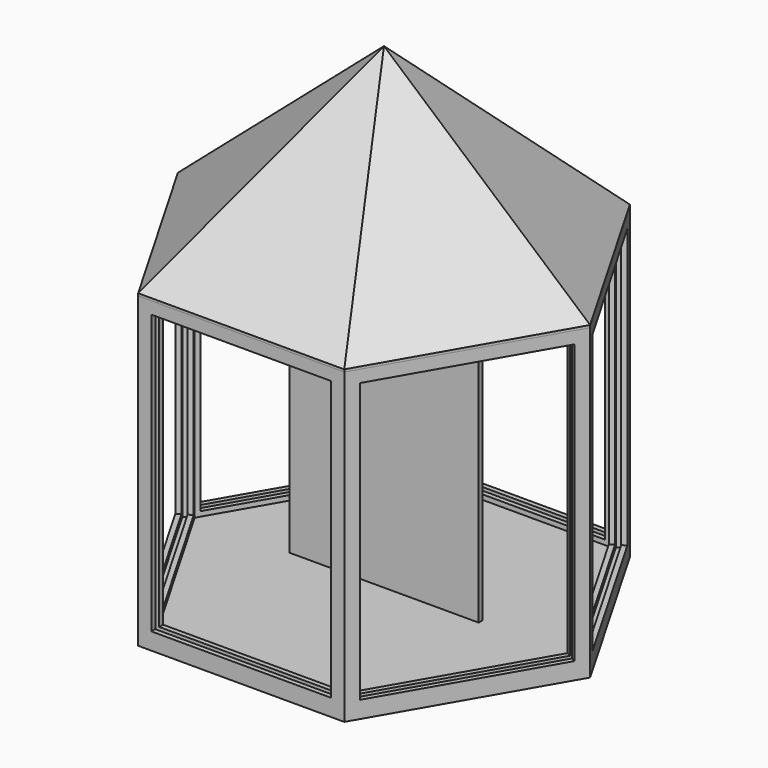
from build123d import *

# Parameters (mm, degrees)
BOX002_W               = 78.0717967697
BOX002_H               = 2
BOX002_DEPTH           = 122
PAD005_DEPTH           = 5
PAD004_DEPTH           = 5
BOX001_W               = 74.0717967697
BOX001_H               = 6
BOX001_DEPTH           = 120
BOX_W                  = 78.0717967697
BOX_H                  = 2
BOX_DEPTH              = 122
ARRAY_COUNT            = 6
PAD001_DEPTH           = 122
PAD_DEPTH              = 127
PAD003_DEPTH           = 5
PAD002_DEPTH           = 5
BOX003_W               = 170
BOX003_H               = 85
BOX003_DEPTH           = 120
BOX003_PLACEMENT_ANGLE = 45
ARRAY001_COUNT         = 6
PAD006_DEPTH           = 80.3811978465
PAD007_DEPTH           = 5
CYLINDER001_R          = 42.5
CYLINDER001_DEPTH      = 10
CYLINDER_R             = 85
CYLINDER_DEPTH         = 10
BOX004_W               = 170
BOX004_H               = 85
BOX004_DEPTH           = 120
BOX004_PLACEMENT_ANGLE = 45
ARRAY002_COUNT         = 6


with BuildPart() as obj1:
    # Box002 → Box002 (new body)
    with BuildSketch(Plane(origin=(-39.0358983849, 0, 0), x_dir=(1, 0, 0), z_dir=(0, 0, 1))):
        with Locations((39.0358983849, 1)):
            Rectangle(BOX002_W, BOX002_H)
    extrude(amount=BOX002_DEPTH)


with BuildPart() as body005:
    # Sketch005 → Pad005 (new body)
    with BuildSketch(Plane.XY):
        Polygon((78.0717967697, 0), (39.0358983849, 67.6121593217), (-39.0358983849, 67.6121593217), (-78.0717967697, 0), (-39.0358983849, -67.6121593217), (39.0358983849, -67.6121593217), align=None)
    extrude(amount=PAD005_DEPTH)


with BuildPart() as cut003:
    # Sketch004 → Pad004 (new body)
    with BuildSketch(Plane.XY):
        Polygon((80.3811978465, 0), (40.1905989232, 69.6121593217), (-40.1905989232, 69.6121593217), (-80.3811978465, 0), (-40.1905989232, -69.6121593217), (40.1905989232, -69.6121593217), align=None)
    extrude(amount=PAD004_DEPTH)

    # Cut003: cut Body005
    add(body005.part, mode=Mode.SUBTRACT)


with BuildPart() as cut003_1:
    # Cut003 placement: moved
    add(cut003.part.moved(Location((0, 0, 122))))


with BuildPart() as cube001:
    # Box001 → Box001 (new body)
    with BuildSketch(Plane(origin=(-37.0358983849, 67.6121593217, 7), x_dir=(1, 0, 0), z_dir=(0, 0, 1))):
        with Locations((37.0358983849, 3)):
            Rectangle(BOX001_W, BOX001_H)
    extrude(amount=BOX001_DEPTH)


with BuildPart() as array:
    # Box → Box (new body)
    with BuildSketch(Plane(origin=(-39.0358983849, 69.6121593217, 5), x_dir=(1, 0, 0), z_dir=(0, 0, 1))):
        with Locations((39.0358983849, 1)):
            Rectangle(BOX_W, BOX_H)
    extrude(amount=BOX_DEPTH)

    # Fusion: union Cube001
    add(cube001.part)

    # Array: Array ×6 about axis
    array_axis = Axis((0, 0, 0), (0, 0, 1))


with BuildPart() as array_1:
    add(array.part)
    for i in range(1, ARRAY_COUNT):
        add(array.part.rotate(array_axis, i * 360 / ARRAY_COUNT))


with BuildPart() as body001:
    # Sketch001 → Pad001 (new body)
    with BuildSketch(Plane.XY):
        Polygon((78.0717967697, 0), (39.0358983849, 67.6121593217), (-39.0358983849, 67.6121593217), (-78.0717967697, 0), (-39.0358983849, -67.6121593217), (39.0358983849, -67.6121593217), align=None)
    extrude(amount=PAD001_DEPTH)


with BuildPart() as body001_1:
    # Body001 placement: moved
    add(body001.part.moved(Location((0, 0, 5))))


with BuildPart() as cut001:
    # Sketch → Pad (new body)
    with BuildSketch(Plane.XY):
        Polygon((85, 0), (42.5, 73.6121593217), (-42.5, 73.6121593217), (-85, 0), (-42.5, -73.6121593217), (42.5, -73.6121593217), align=None)
    extrude(amount=PAD_DEPTH)

    # Cut: cut Body001
    add(body001_1.part, mode=Mode.SUBTRACT)

    # Cut001: cut Array
    add(array_1.part, mode=Mode.SUBTRACT)


with BuildPart() as body003:
    # Sketch003 → Pad003 (new body)
    with BuildSketch(Plane.XY):
        Polygon((82.6905989232, 0), (41.3452994616, 71.6121593217), (-41.3452994616, 71.6121593217), (-82.6905989232, 0), (-41.3452994616, -71.6121593217), (41.3452994616, -71.6121593217), align=None)
    extrude(amount=PAD003_DEPTH)


with BuildPart() as fusion002:
    # Sketch002 → Pad002 (new body)
    with BuildSketch(Plane.XY):
        Polygon((85, 0), (42.5, 73.6121593217), (-42.5, 73.6121593217), (-85, 0), (-42.5, -73.6121593217), (42.5, -73.6121593217), align=None)
    extrude(amount=PAD002_DEPTH)

    # Cut002: cut Body003
    add(body003.part, mode=Mode.SUBTRACT)


with BuildPart() as fusion002_1:
    # Cut002 placement: moved
    add(fusion002.part.moved(Location((0, 0, 122))))

    # Fusion002: union Cut003, Cut001
    add(cut003_1.part)
    add(cut001.part)


with BuildPart() as fusion004:
    # Box003 → Box003 (new body)
    with BuildSketch(Plane.XY):
        with Locations((85, 42.5)):
            Rectangle(BOX003_W, BOX003_H)
    extrude(amount=BOX003_DEPTH)


with BuildPart() as fusion004_1:
    # Box003 placement: moved
    add(fusion004.part.moved(Location((-85, 73.6121593217, 6))).rotate(Axis((-85, 73.6121593217, 6), (1, 0, 0)), BOX003_PLACEMENT_ANGLE))

    # Array001: Fusion004 ×6 about axis
    array001_axis = Axis((0, 0, 0), (0, 0, 1))


with BuildPart() as fusion004_2:
    add(fusion004_1.part)
    for i in range(1, ARRAY001_COUNT):
        add(fusion004_1.part.rotate(array001_axis, i * 360 / ARRAY001_COUNT))


with BuildPart() as body006:
    # Sketch006 → Pad006 (new body)
    with BuildSketch(Plane.XY):
        Polygon((85, 0), (42.5, 73.6121593217), (-42.5, 73.6121593217), (-85, 0), (-42.5, -73.6121593217), (42.5, -73.6121593217), align=None)
    extrude(amount=PAD006_DEPTH)


with BuildPart() as body006_1:
    # Body006 placement: moved
    add(body006.part.moved(Location((0, 0, 5))))


with BuildPart() as cut004:
    # Sketch007 → Pad007 (new body)
    with BuildSketch(Plane.XY):
        Polygon((77.6717967697, 0), (38.8358983849, 67.2657491602), (-38.8358983849, 67.2657491602), (-77.6717967697, 0), (-38.8358983849, -67.2657491602), (38.8358983849, -67.2657491602), align=None)
    extrude(amount=PAD007_DEPTH)

    # Fusion003: union Body006
    add(body006_1.part)

    # Cut004: cut Fusion004
    add(fusion004_2.part, mode=Mode.SUBTRACT)


with BuildPart() as cylinder001:
    # Cylinder001 → Cylinder001 (new body)
    with BuildSketch(Plane.XY):
        Circle(CYLINDER001_R)
    extrude(amount=CYLINDER001_DEPTH)


with BuildPart() as cut005:
    # Cylinder → Cylinder (new body)
    with BuildSketch(Plane.XY):
        Circle(CYLINDER_R)
    extrude(amount=CYLINDER_DEPTH)

    # Cut005: cut Cylinder001
    add(cylinder001.part, mode=Mode.SUBTRACT)


with BuildPart() as common:
    # Box004 → Box004 (new body)
    with BuildSketch(Plane.XY):
        with Locations((85, 42.5)):
            Rectangle(BOX004_W, BOX004_H)
    extrude(amount=BOX004_DEPTH)


with BuildPart() as common_1:
    # Box004 placement: moved
    add(common.part.moved(Location((-85, 71.6121593217, 6))).rotate(Axis((-85, 71.6121593217, 6), (1, 0, 0)), BOX004_PLACEMENT_ANGLE))

    # Array002: Common ×6 about axis
    array002_axis = Axis((0, 0, 0), (0, 0, 1))


with BuildPart() as common_2:
    add(common_1.part)
    for i in range(1, ARRAY002_COUNT):
        add(common_1.part.rotate(array002_axis, i * 360 / ARRAY002_COUNT))

    # Fusion006: union Cut005
    add(cut005.part)

    # Common: intersect Cut004
    add(cut004.part, mode=Mode.INTERSECT)


with BuildPart() as common_3:
    # Common placement: moved
    add(common_2.part.moved(Location((0, 0, 122))))


solid = Compound([obj1.part, fusion002_1.part, common_3.part])
